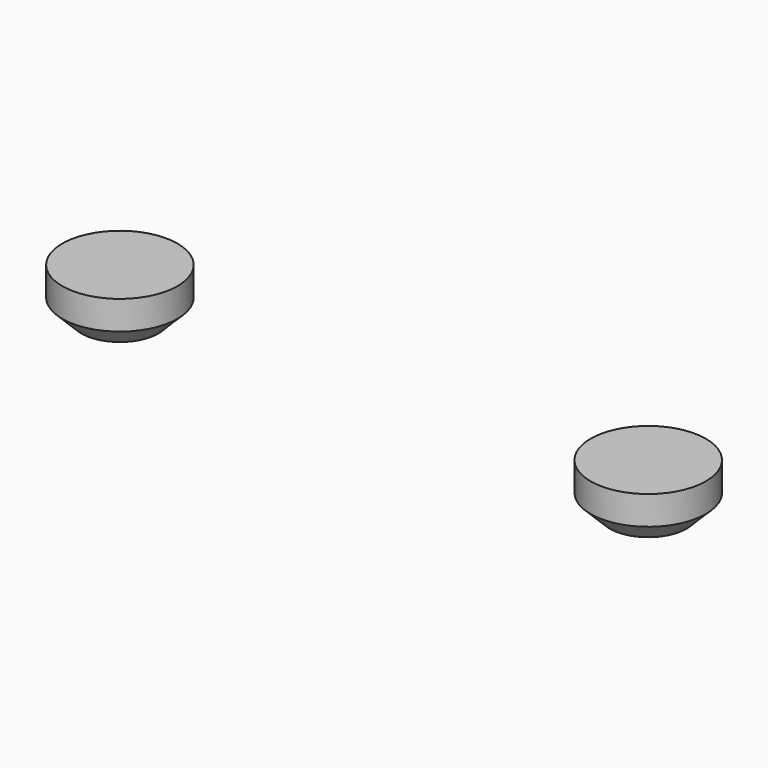
from build123d import *

# Parameters (mm, degrees)
CYLINDER006_R     = 1.2
CYLINDER006_DEPTH = 1
CYLINDER007_R     = 1.2
CYLINDER007_DEPTH = 1
CHAMFER002_SIZE   = 0.4


with BuildPart() as cylinder006:
    # Cylinder006 → Cylinder006 (new body)
    with BuildSketch(Plane(origin=(-5.5, 0, 25), x_dir=(1, 0, 0), z_dir=(0, 0, 1))):
        Circle(CYLINDER006_R)
    extrude(amount=CYLINDER006_DEPTH)


with BuildPart() as chamfer002:
    # Cylinder007 → Cylinder007 (new body)
    with BuildSketch(Plane(origin=(5.5, 0, 25), x_dir=(1, 0, 0), z_dir=(0, 0, 1))):
        Circle(CYLINDER007_R)
    extrude(amount=CYLINDER007_DEPTH)

    # Fusion001005: union Cylinder006
    add(cylinder006.part)

    # Chamfer002
    chamfer002_edges = [chamfer002.edges().sort_by_distance(p)[0] for p in [
        (4.3, 0, 25),
        (-6.7, 0, 25),
    ]]
    chamfer(chamfer002_edges, length=CHAMFER002_SIZE)


solid = chamfer002.part
